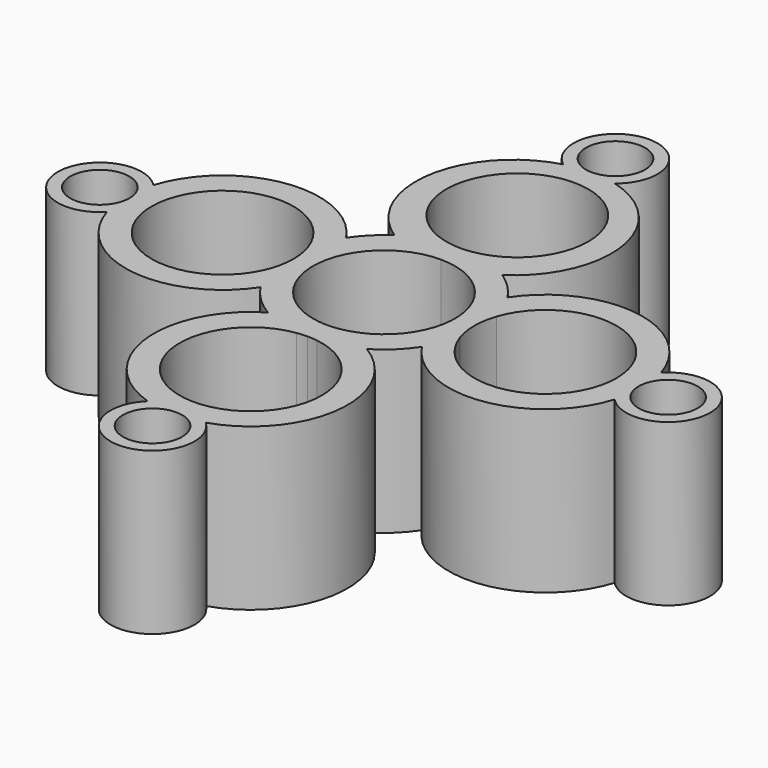
from build123d import *

# Parameters (mm, degrees)
F0_R     = 4.58
F1_DEPTH = 25


with BuildPart() as f1:
    # F0 (on Top) → F1 (new body)
    with BuildSketch(Plane.XY):
        with BuildLine():
            ThreePointArc((-39.310684, -4.494921), (-27.103156, -14.851826), (-12.5, -8.291562))
            ThreePointArc((-12.5, -8.291562), (-10.336931, -10.869584), (-7.653568, -12.9005))
            ThreePointArc((-7.653568, -12.9005), (-14.899951, -27.530585), (-4.494896, -40.111692))
            ThreePointArc((-4.494896, -40.111692), (0, -51.307), (4.494896, -40.111692))
            ThreePointArc((4.494896, -40.111692), (14.899951, -27.530585), (7.653568, -12.9005))
            ThreePointArc((7.653568, -12.9005), (10.336931, -10.869584), (12.5, -8.291562))
            ThreePointArc((12.5, -8.291562), (27.103169, -14.851824), (39.310692, -4.494896))
            ThreePointArc((39.310692, -4.494896), (50.506, 0), (39.310692, 4.494896))
            ThreePointArc((39.310692, 4.494896), (27.103169, 14.851824), (12.5, 8.291562))
            ThreePointArc((12.5, 8.291562), (10.631626, 10.581519), (8.350521, 12.46069))
            ThreePointArc((8.350521, 12.46069), (14.949492, 27.473922), (4.00518, 39.687257))
            ThreePointArc((4.00518, 39.687257), (0, 51.306684), (-4.00518, 39.687257))
            ThreePointArc((-4.00518, 39.687257), (-14.949492, 27.473922), (-8.350521, 12.46069))
            ThreePointArc((-8.350521, 12.46069), (-10.631626, 10.581519), (-12.5, 8.291562))
            ThreePointArc((-12.5, 8.291562), (-27.103156, 14.851826), (-39.310684, 4.494921))
            ThreePointArc((-39.310684, 4.494921), (-50.505968, 0), (-39.310684, -4.494921))
        make_face()
        with Locations((0, -44.807)):
            Circle(F0_R, mode=Mode.SUBTRACT)
        with BuildLine():
            ThreePointArc((-1.585925, -14.915926), (-0.795042, -14.829769), (0, -14.801))
            ThreePointArc((0, -14.801), (0.795042, -14.829769), (1.585925, -14.915926))
            ThreePointArc((1.585925, -14.915926), (8.320011, -18.605348), (11, -25.801))
            ThreePointArc((11, -25.801), (-7.195652, -34.121011), (-1.585925, -14.915926))
        make_face(mode=Mode.SUBTRACT)
        with Locations((-44.005968, 0)):
            Circle(F0_R, mode=Mode.SUBTRACT)
        with BuildLine():
            ThreePointArc((-14.58, -3.524713), (-36, 0), (-14.58, 3.524713))
            ThreePointArc((-14.58, 3.524713), (-14, 0), (-14.58, -3.524713))
        make_face(mode=Mode.SUBTRACT)
        with BuildLine():
            ThreePointArc((-1.585925, -10.885074), (-10.971231, 0.795042), (0, 11))
            ThreePointArc((0, 11), (10.971231, 0.795042), (1.585925, -10.885074))
            ThreePointArc((1.585925, -10.885074), (0.795042, -10.971231), (0, -11))
            ThreePointArc((0, -11), (-0.795042, -10.971231), (-1.585925, -10.885074))
        make_face(mode=Mode.SUBTRACT)
        with BuildLine():
            ThreePointArc((0, 14.800684), (-0.795673, 14.829499), (-1.587177, 14.915793))
            ThreePointArc((-1.587177, 14.915793), (-7.195174, 34.121109), (11, 25.800684))
            ThreePointArc((11, 25.800684), (8.320425, 18.605511), (1.587177, 14.915793))
            ThreePointArc((1.587177, 14.915793), (0.795673, 14.829499), (0, 14.800684))
        make_face(mode=Mode.SUBTRACT)
        with Locations((0, 44.806684)):
            Circle(F0_R, mode=Mode.SUBTRACT)
        with BuildLine():
            ThreePointArc((14.58, -3.524713), (14, 0), (14.58, 3.524713))
            ThreePointArc((14.58, 3.524713), (36, 0), (14.58, -3.524713))
        make_face(mode=Mode.SUBTRACT)
        with Locations((44.006, 0)):
            Circle(F0_R, mode=Mode.SUBTRACT)
    extrude(amount=F1_DEPTH)


solid = f1.part
